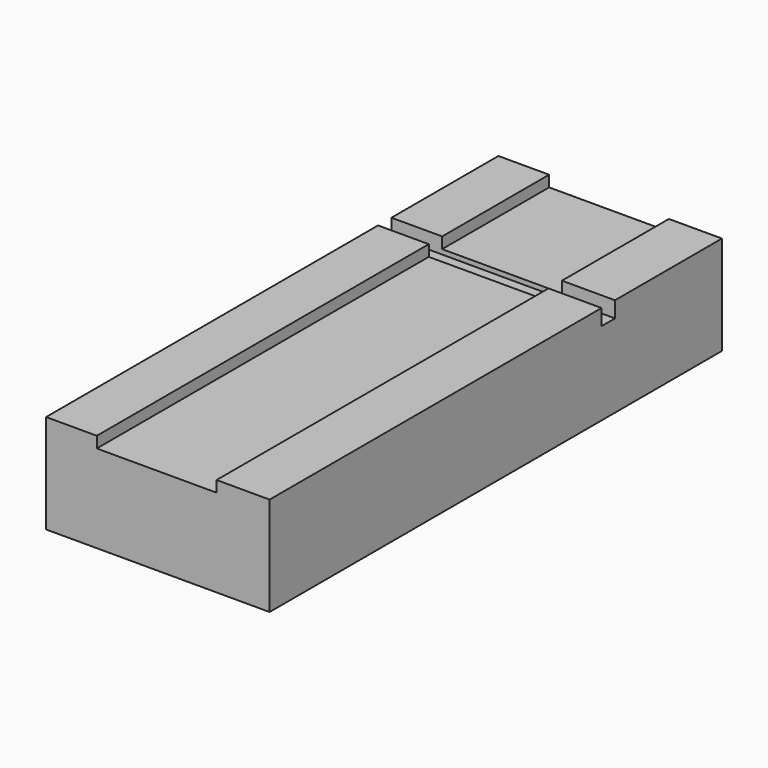
from build123d import *

# Parameters (mm, degrees)
F0_W     = 1.6141478449
F0_H     = 17.9891760959
F0_W_2   = 3.81
F0_W_3   = 1.6878521551
F1_DEPTH = 3.1496
F2_START = 2.794
F2_DEPTH = 2.0828
F3_W     = 8.6175605327
F3_H     = 0.5334
F3_W_2   = 1.6141478449
F4_DEPTH = 0.508


with BuildPart() as f1:
    # F0 (on Top) → F1 (new body)
    with BuildSketch(Plane.XY):
        with Locations((-3.3795093424, -0.3924611956)):
            Rectangle(F0_W, F0_H)
        with Locations((-0.66743542, -0.3924611956)):
            Rectangle(F0_W_2, F0_H)
        with Locations((2.0814906576, -0.3924611956)):
            Rectangle(F0_W_3, F0_H)
    extrude(amount=F1_DEPTH)

    # F0 (on Top) → F2 (cut)
    with BuildSketch(Plane.XY.offset(F2_START)):
        with Locations((-0.66743542, -0.3924611956)):
            Rectangle(F0_W_2, F0_H)
    extrude(amount=F2_DEPTH, mode=Mode.SUBTRACT)

    # F3 (on face) → F4 (cut)
    with BuildSketch(Plane.XY.offset(3.1496)):
        with Locations((1.7363448463, 4.0817503403)):
            Rectangle(F3_W, F3_H)
        with Locations((-3.3795093424, 4.0817503403)):
            Rectangle(F3_W_2, F3_H)
    extrude(amount=-F4_DEPTH, mode=Mode.SUBTRACT)


solid = f1.part
